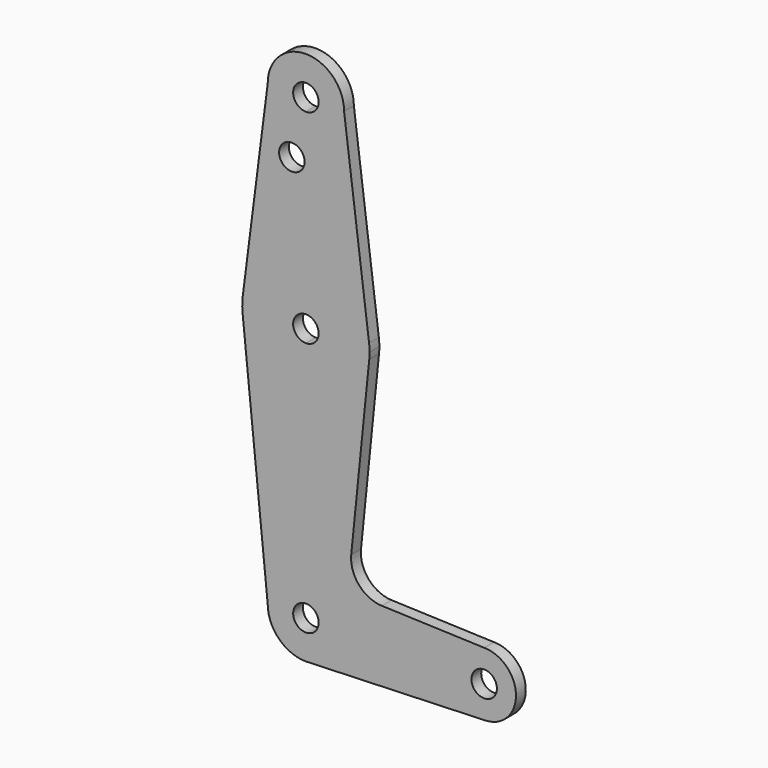
from build123d import *

# Parameters (mm, degrees)
F0_R     = 3.175
F1_DEPTH = 3.048


with BuildPart() as f1:
    # F0 (on Front) → F1 (new body)
    with BuildSketch(Plane.XZ):
        with BuildLine():
            Line((9.525, 0), (3.175, 0))
            ThreePointArc((3.175, 0), (-2.2450640303, -2.2450640303), (0, 3.175))
            Line((0, 3.175), (0, 9.525))
            ThreePointArc((0, 9.525), (-6.7351920908, 6.7351920908), (-9.525, 0))
            ThreePointArc((-9.525, 0), (-6.7351920908, -6.7351920908), (0, -9.525))
            Line((0, -9.525), (0.6773435479, -9.500885786))
            ThreePointArc((0.6773435479, -9.500885786), (6.9705567315, -6.4912990883), (9.525, 0))
        make_face()
        with BuildLine():
            ThreePointArc((0, 9.525), (6.7351920908, 6.7351920908), (9.525, 0))
            Line((9.525, 0), (36.5125, 0))
            ThreePointArc((36.5125, 0), (38.8373399243, 5.6126600757), (44.45, 7.9375))
            Line((44.45, 7.9375), (18.9329889534, 8.8488218231))
            ThreePointArc((18.9329889534, 8.8488218231), (13.22446249, 11.5691841219), (11.3070069952, 17.5950458731))
            Line((11.3070069952, 17.5950458731), (15.7942028036, 61.9003804205))
            ThreePointArc((15.7942028036, 61.9003804205), (10.644756084, 51.722700101), (0, 47.625))
            Line((0, 47.625), (0, 9.525))
        make_face()
        with BuildLine():
            Line((36.5125, 0), (9.525, 0))
            ThreePointArc((9.525, 0), (6.9705567315, -6.4912990883), (0.6773435479, -9.500885786))
            Line((0.6773435479, -9.500885786), (44.7324052746, -7.9324746146))
            ThreePointArc((44.7324052746, -7.9324746146), (38.9380895153, -5.7116327839), (36.5125, 0))
        make_face()
        with BuildLine():
            ThreePointArc((-9.525, 0), (-6.7351920908, 6.7351920908), (0, 9.525))
            Line((0, 9.525), (0, 47.625))
            ThreePointArc((0, 47.625), (-10.644756084, 51.722700101), (-15.7942028036, 61.9003804205))
            Line((-15.7942028036, 61.9003804205), (-9.525, 0))
        make_face()
        with BuildLine():
            ThreePointArc((44.45, 7.9375), (38.8373399243, 5.6126600757), (36.5125, 0))
            ThreePointArc((36.5125, 0), (38.9380895153, -5.7116327839), (44.7324052746, -7.9324746146))
            ThreePointArc((44.7324052746, -7.9324746146), (50.1616327839, -5.5119104847), (52.3875, 0))
            ThreePointArc((52.3875, 0), (50.0626600757, 5.6126600757), (44.45, 7.9375))
        make_face()
        with BuildLine():
            ThreePointArc((47.625, 0), (44.45, -3.175), (41.275, 0))
            ThreePointArc((41.275, 0), (44.45, 3.175), (47.625, 0))
        make_face(mode=Mode.SUBTRACT)
        with BuildLine():
            ThreePointArc((0, -9.525), (0.3388863295, -9.5189695375), (0.6773435479, -9.500885786))
            Line((0.6773435479, -9.500885786), (0, -9.525))
        make_face()
        with BuildLine():
            ThreePointArc((-15.7942028036, 61.9003804205), (-10.644756084, 51.722700101), (0, 47.625))
            Line((0, 47.625), (0, 60.325))
            ThreePointArc((0, 60.325), (-3.175, 63.5), (0, 66.675))
            Line((0, 66.675), (0, 79.375))
            ThreePointArc((0, 79.375), (-10.489930849, 75.415409174), (-15.7470007272, 65.5118630909))
            ThreePointArc((-15.7470007272, 65.5118630909), (-15.8736442512, 63.7074685209), (-15.7942028036, 61.9003804205))
        make_face()
        with BuildLine():
            Line((0, 60.325), (0, 47.625))
            ThreePointArc((0, 47.625), (10.644756084, 51.722700101), (15.7942028036, 61.9003804205))
            ThreePointArc((15.7942028036, 61.9003804205), (15.8547878338, 62.6991705884), (15.875, 63.5))
            ThreePointArc((15.875, 63.5), (15.8430821396, 64.5061676396), (15.7474569047, 65.5082893304))
            ThreePointArc((15.7474569047, 65.5082893304), (10.4912828548, 75.4142187767), (0, 79.375))
            Line((0, 79.375), (0, 66.675))
            ThreePointArc((0, 66.675), (2.2450640303, 65.7450640303), (3.175, 63.5))
            ThreePointArc((3.175, 63.5), (2.2450640303, 61.2549359697), (0, 60.325))
        make_face()
        with BuildLine():
            Line((-9.5246198098, 114.2148972472), (-15.7470007272, 65.5118630909))
            ThreePointArc((-15.7470007272, 65.5118630909), (-10.489930849, 75.415409174), (0, 79.375))
            Line((0, 79.375), (0, 104.775))
            ThreePointArc((0, 104.775), (-6.7050362146, 107.5347864512), (-9.5246198098, 114.2148972472))
        make_face()
        with Locations((-3.503959626, 100.0252)):
            Circle(F0_R, mode=Mode.SUBTRACT)
        with BuildLine():
            Line((0, 104.775), (0, 79.375))
            ThreePointArc((0, 79.375), (10.4912828548, 75.4142187767), (15.7474569047, 65.5082893304))
            Line((15.7474569047, 65.5082893304), (9.525, 114.3))
            ThreePointArc((9.525, 114.3), (6.7351920908, 107.5648079092), (0, 104.775))
        make_face()
        with BuildLine():
            ThreePointArc((9.525, 114.3), (-0.042551801, 123.824904952), (-9.5246198098, 114.2148972472))
            ThreePointArc((-9.5246198098, 114.2148972472), (-6.7050362146, 107.5347864512), (0, 104.775))
            ThreePointArc((0, 104.775), (6.7351920908, 107.5648079092), (9.525, 114.3))
        make_face()
        with BuildLine():
            ThreePointArc((3.175, 114.3), (2.2450640303, 112.0549359697), (0, 111.125))
            ThreePointArc((0, 111.125), (-2.2450640303, 116.5450640303), (3.175, 114.3))
        make_face(mode=Mode.SUBTRACT)
        with BuildLine():
            ThreePointArc((0, 3.175), (2.2450640303, 2.2450640303), (3.175, 0))
            Line((3.175, 0), (9.525, 0))
            ThreePointArc((9.525, 0), (6.7351920908, 6.7351920908), (0, 9.525))
            Line((0, 9.525), (0, 3.175))
        make_face()
    extrude(amount=F1_DEPTH)


solid = f1.part
